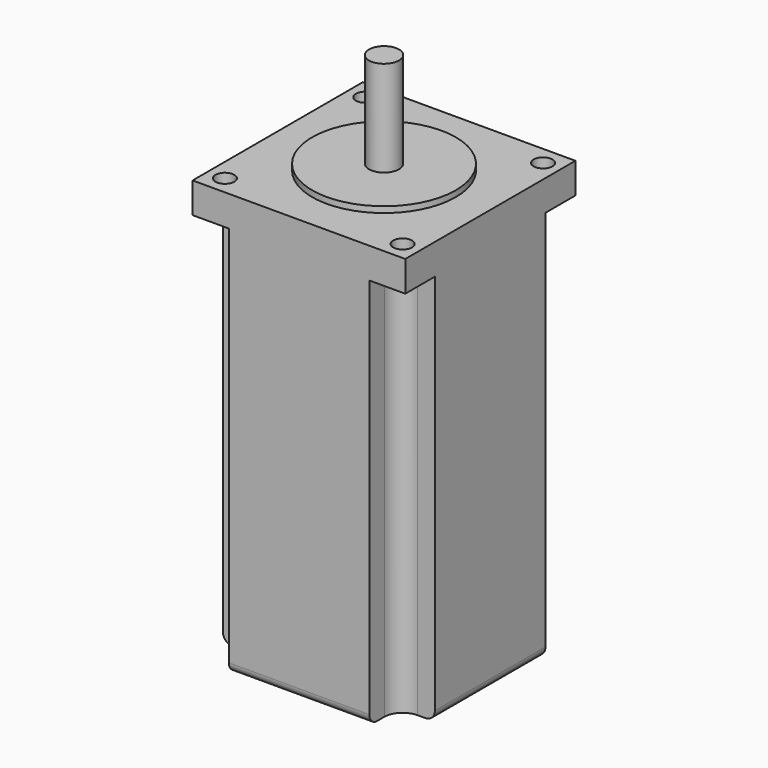
from build123d import *

# Parameters (mm, degrees)
F0_W     = 56.388
F0_H     = 56.388
F1_DEPTH = 111.99876
F2_R     = 2.49936
F3_DEPTH = 111.99976
F4_R     = 19.05
F5_DEPTH = 1.59766
F6_R     = 3.97383
F7_DEPTH = 25.4
F9_DEPTH = 103.886
F10_R    = 2.54


with BuildPart() as f1:
    # F0 (on Top) → F1 (new body)
    with BuildSketch(Plane.XY):
        Rectangle(F0_W, F0_H)
    extrude(amount=F1_DEPTH)

    # F2 (on face) → F3 (cut, through all)
    with BuildSketch(Plane.XY.offset(111.99876)):
        with Locations((-23.56993, 23.273565)):
            Circle(F2_R)
        with Locations((23.56993, 23.273565)):
            Circle(F2_R)
        with Locations((23.56993, -23.273565)):
            Circle(F2_R)
        with Locations((-23.56993, -23.273565)):
            Circle(F2_R)
    extrude(amount=-F3_DEPTH, mode=Mode.SUBTRACT)

    # F4 (on face) → F5 (join)
    with BuildSketch(Plane.XY.offset(111.99876)):
        Circle(F4_R)
    extrude(amount=F5_DEPTH)

    # F6 (on face) → F7 (join)
    with BuildSketch(Plane.XY.offset(113.59642)):
        Circle(F6_R)
    extrude(amount=F7_DEPTH)

    # F8 (on face) → F9 (cut)
    with BuildSketch(Plane(origin=(0, 0, 0), x_dir=(1, 0, 0), z_dir=(0, 0, -1))):
        with BuildLine():
            ThreePointArc((-23.594014, 18.158077), (-19.910458, 19.713716), (-18.457055, 23.438796))
            Line((-18.457055, 23.438796), (-18.610727, 28.194))
            Line((-18.610727, 28.194), (-28.194, 28.194))
            Line((-28.194, 28.194), (-28.194, 18.158077))
            Line((-28.194, 18.158077), (-23.594014, 18.158077))
        make_face()
        with BuildLine():
            Line((-18.704263, -28.194), (-18.704263, -23.265395))
            ThreePointArc((-18.704263, -23.265395), (-20.132269, -19.830127), (-23.56993, -18.407891))
            Line((-23.56993, -18.407891), (-28.194, -18.407891))
            Line((-28.194, -18.407891), (-28.194, -28.194))
            Line((-28.194, -28.194), (-18.704263, -28.194))
        make_face()
        with BuildLine():
            ThreePointArc((23.56993, -18.27852), (20.009329, -19.770338), (18.575544, -23.3547))
            Line((18.575544, -23.3547), (18.575544, -28.194))
            Line((18.575544, -28.194), (28.194, -28.194))
            Line((28.194, -28.194), (28.194, -18.27852))
            Line((28.194, -18.27852), (23.56993, -18.27852))
        make_face()
        with BuildLine():
            Line((18.663428, 28.194), (18.663428, 23.151265))
            ThreePointArc((18.663428, 23.151265), (20.142944, 19.760093), (23.56993, 18.365539))
            Line((23.56993, 18.365539), (28.194, 18.365539))
            Line((28.194, 18.365539), (28.194, 28.194))
            Line((28.194, 28.194), (18.663428, 28.194))
        make_face()
    extrude(amount=-F9_DEPTH, mode=Mode.SUBTRACT)

    # F10
    f10_edges = [f1.edges().sort_by_distance(p)[0] for p in [
        (-28.194, 0.124907, 0),
        (0.026351, -28.194, 0),
        (28.194, -0.04351, 0),
        (-0.06436, 28.194, 0),
    ]]
    fillet(f10_edges, radius=F10_R)


solid = f1.part
